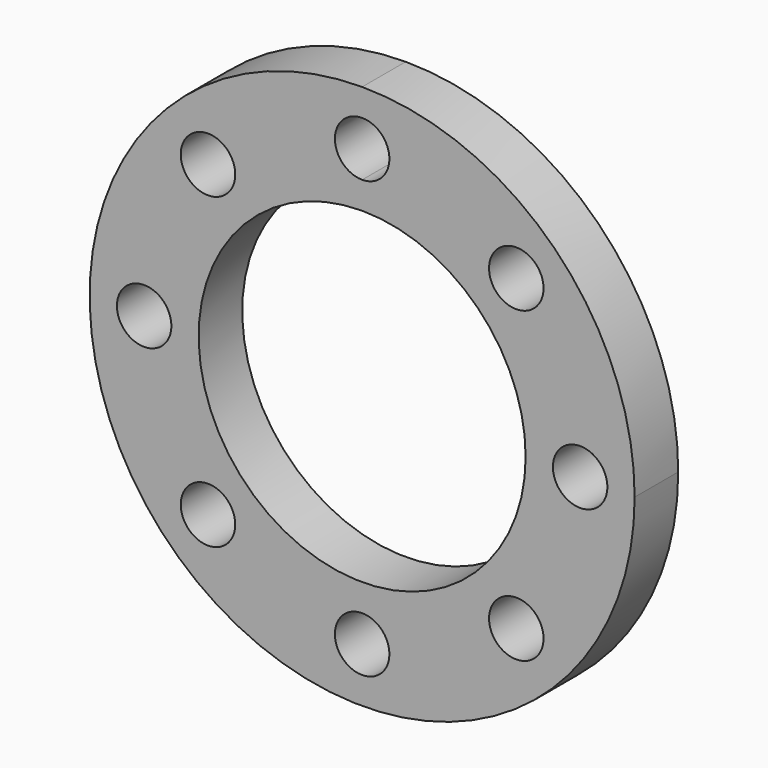
from build123d import *

# Parameters (mm, degrees)
F0_R     = 5
F1_DEPTH = 10


with BuildPart() as f1:
    # F0 (on Front) → F1 (new body)
    with BuildSketch(Plane.XZ):
        with BuildLine():
            ThreePointArc((0, 50), (-35.355339, -35.355339), (50, 0))
            ThreePointArc((50, 0), (35.355339, 35.355339), (0, 50))
        make_face()
        with Locations((-28.284271, -28.284271)):
            Circle(F0_R, mode=Mode.SUBTRACT)
        with Locations((0, -40)):
            Circle(F0_R, mode=Mode.SUBTRACT)
        with Locations((28.284271, -28.284271)):
            Circle(F0_R, mode=Mode.SUBTRACT)
        with Locations((-40, 0)):
            Circle(F0_R, mode=Mode.SUBTRACT)
        with Locations((-28.284271, 28.284271)):
            Circle(F0_R, mode=Mode.SUBTRACT)
        with BuildLine():
            ThreePointArc((30, 0), (-21.213203, -21.213203), (0, 30))
            ThreePointArc((0, 30), (21.213203, 21.213203), (30, 0))
        make_face(mode=Mode.SUBTRACT)
        with Locations((40, 0)):
            Circle(F0_R, mode=Mode.SUBTRACT)
        with BuildLine():
            ThreePointArc((0, 35), (-5, 40), (0, 45))
            ThreePointArc((0, 45), (3.535534, 43.535534), (5, 40))
            ThreePointArc((5, 40), (3.535534, 36.464466), (0, 35))
        make_face(mode=Mode.SUBTRACT)
        with Locations((28.284271, 28.284271)):
            Circle(F0_R, mode=Mode.SUBTRACT)
    extrude(amount=F1_DEPTH)


solid = f1.part
